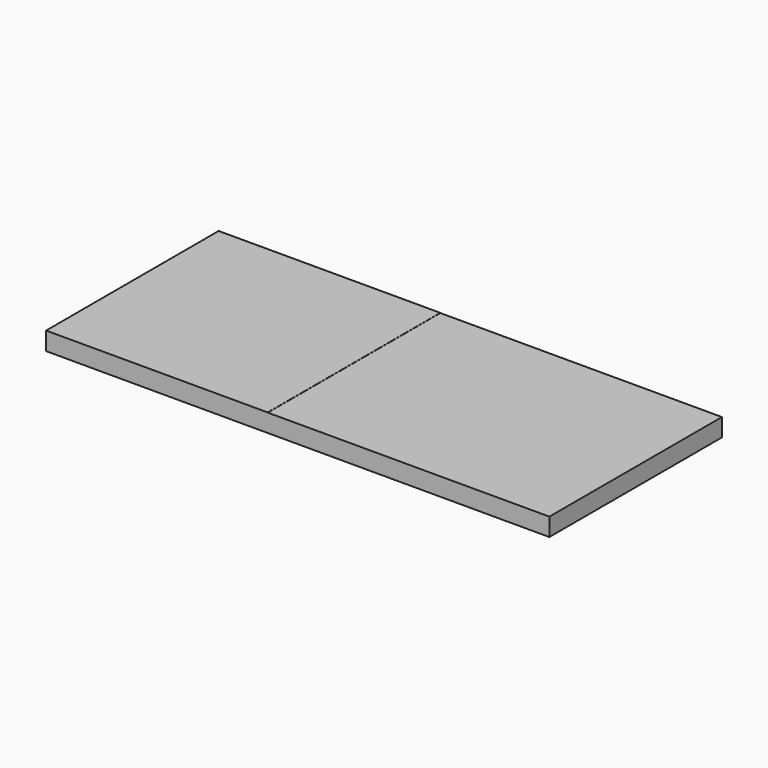
from build123d import *

# Parameters (mm, degrees)
F0_W     = 8534.4
F0_H     = 3657.6
F1_DEPTH = 304.8
F2_W     = 3759.2
F2_H     = 3657.6
F3_DEPTH = 2.54


with BuildPart() as f1:
    # F0 (on Top) → F1 (new body)
    with BuildSketch(Plane.XY):
        Rectangle(F0_W, F0_H)
    extrude(amount=F1_DEPTH)


with BuildPart() as f3:
    # F2 (on face) → F3 (new body)
    with BuildSketch(Plane.XY.offset(304.8)):
        with Locations((-2387.6, 0)):
            Rectangle(F2_W, F2_H)
    extrude(amount=F3_DEPTH)


solid = Compound([f1.part, f3.part])
